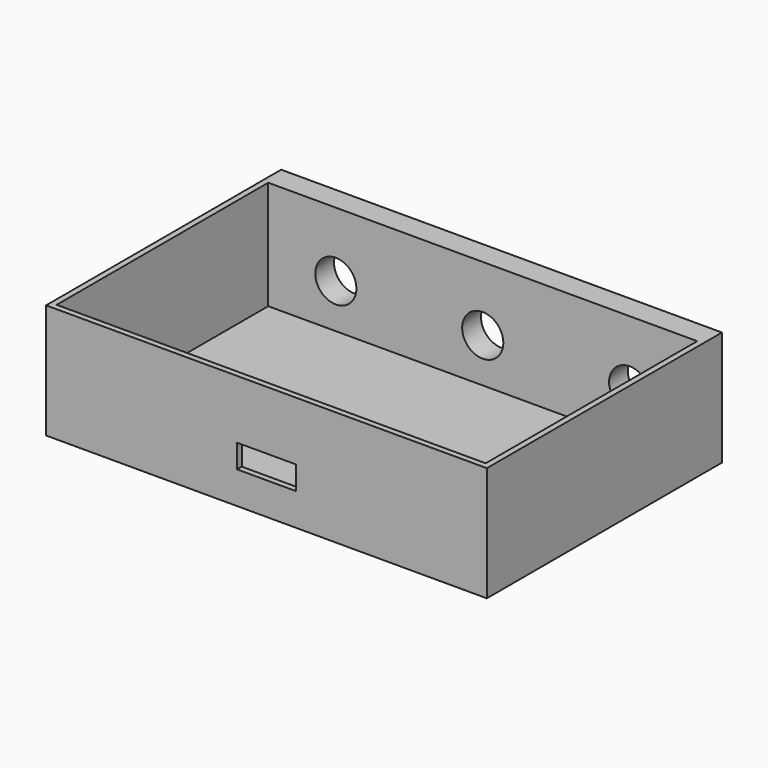
from build123d import *

# Parameters (mm, degrees)
F2_W     = 75
F2_H     = 50
F3_DEPTH = 19.5
F4_W     = 73
F4_H     = 45
F5_DEPTH = 18.5
F6_W     = 10
F6_H     = 4
F7_DEPTH = 1
F8_R     = 3.5
F9_DEPTH = 4


with BuildPart() as f3:
    # F2 (on Top) → F3 (new body)
    with BuildSketch(Plane.XY):
        Rectangle(F2_W, F2_H)
    extrude(amount=F3_DEPTH)

    # F4 (on face) → F5 (cut)
    with BuildSketch(Plane.XY.offset(19.5)):
        with Locations((0, -1.5)):
            Rectangle(F4_W, F4_H)
    extrude(amount=-F5_DEPTH, mode=Mode.SUBTRACT)

    # F6 (on face) → F7 (cut, through all)
    with BuildSketch(Plane.XZ.offset(25)):
        with Locations((0, 7.5)):
            Rectangle(F6_W, F6_H)
    extrude(amount=-F7_DEPTH, mode=Mode.SUBTRACT)

    # F8 (on face) → F9 (cut, through all)
    with BuildSketch(Plane(origin=(0, 25, 0), x_dir=(-1, 0, 0), z_dir=(0, 1, 0))):
        with Locations((-25, 8.5)):
            Circle(F8_R)
        with Locations((0, 8.5)):
            Circle(F8_R)
        with Locations((25, 8.5)):
            Circle(F8_R)
    extrude(amount=-F9_DEPTH, mode=Mode.SUBTRACT)


solid = f3.part
